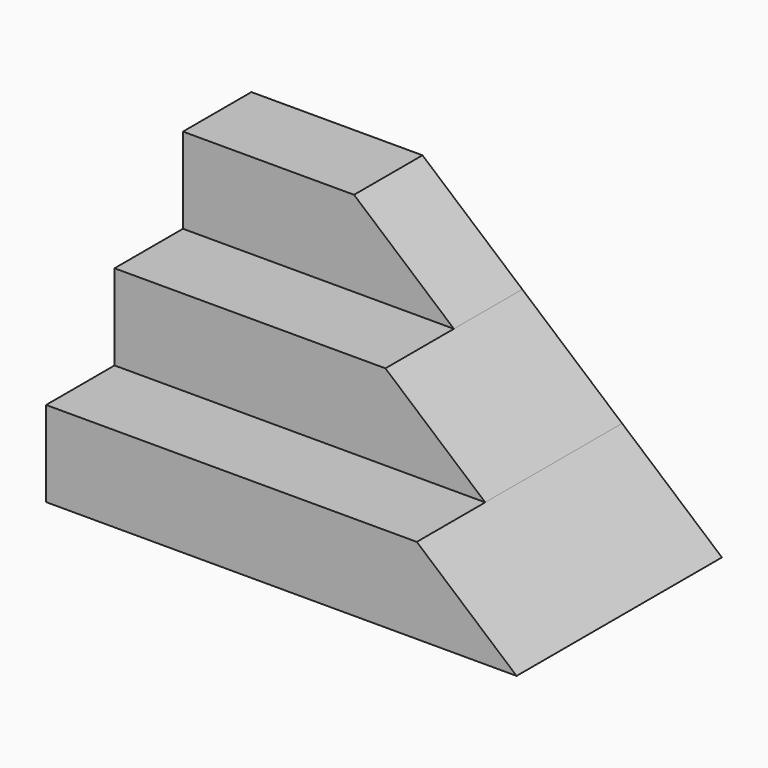
from build123d import *

# Parameters (mm, degrees)
F1_DEPTH = 20
F2_DEPTH = 40
F3_DEPTH = 60


with BuildPart() as f1:
    # F0 (on Front) → F1 (new body)
    with BuildSketch(Plane.XZ):
        Polygon((0, 60), (0, 40), (63.333333, 40), (40, 60), align=None)
    extrude(amount=F1_DEPTH)

    # F0 (on Front) → F2 (join)
    with BuildSketch(Plane.XZ):
        Polygon((0, 40), (0, 20), (86.666667, 20), (63.333333, 40), align=None)
    extrude(amount=F2_DEPTH)

    # F0 (on Front) → F3 (join)
    with BuildSketch(Plane.XZ):
        Polygon((0, 20), (0, 0), (110, 0), (86.666667, 20), align=None)
    extrude(amount=F3_DEPTH)


solid = f1.part
